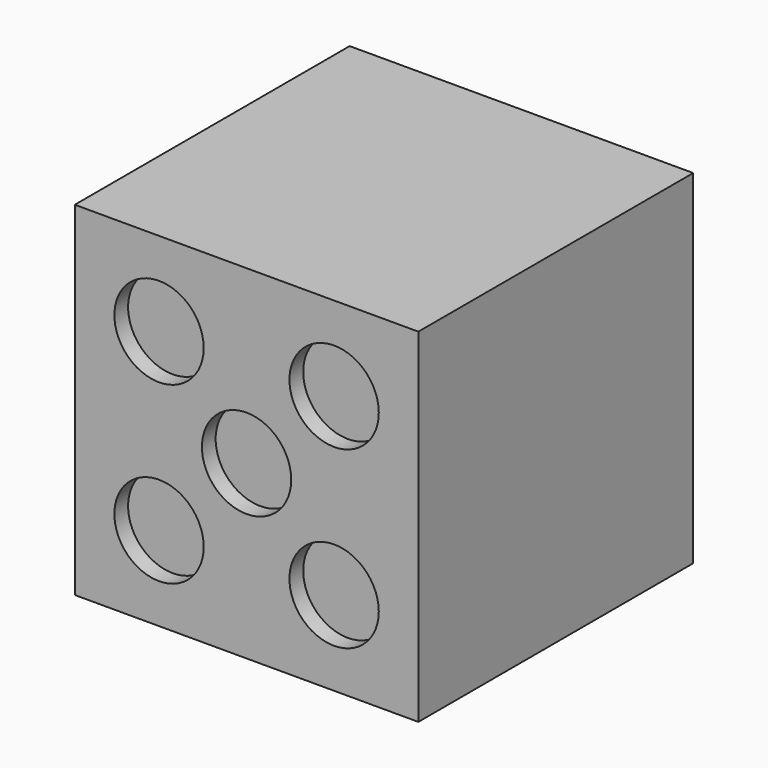
from build123d import *

# Parameters (mm, degrees)
F0_W     = 20
F0_H     = 20
F1_DEPTH = 20
F2_R     = 2.6
F3_DEPTH = 1


with BuildPart() as f1:
    # F0 (on Front) → F1 (new body)
    with BuildSketch(Plane.XZ):
        with Locations((10, 10)):
            Rectangle(F0_W, F0_H)
    extrude(amount=F1_DEPTH)

    # F2 (on face) → F3 (cut)
    with BuildSketch(Plane.XZ.offset(20)):
        with Locations((10, 10)):
            Circle(F2_R)
        with Locations((4.904118, 15.095882)):
            Circle(F2_R)
        with Locations((15.095882, 15.095882)):
            Circle(F2_R)
        with Locations((4.904118, 4.904118)):
            Circle(F2_R)
        with Locations((15.095882, 4.904118)):
            Circle(F2_R)
    extrude(amount=-F3_DEPTH, mode=Mode.SUBTRACT)


solid = f1.part
